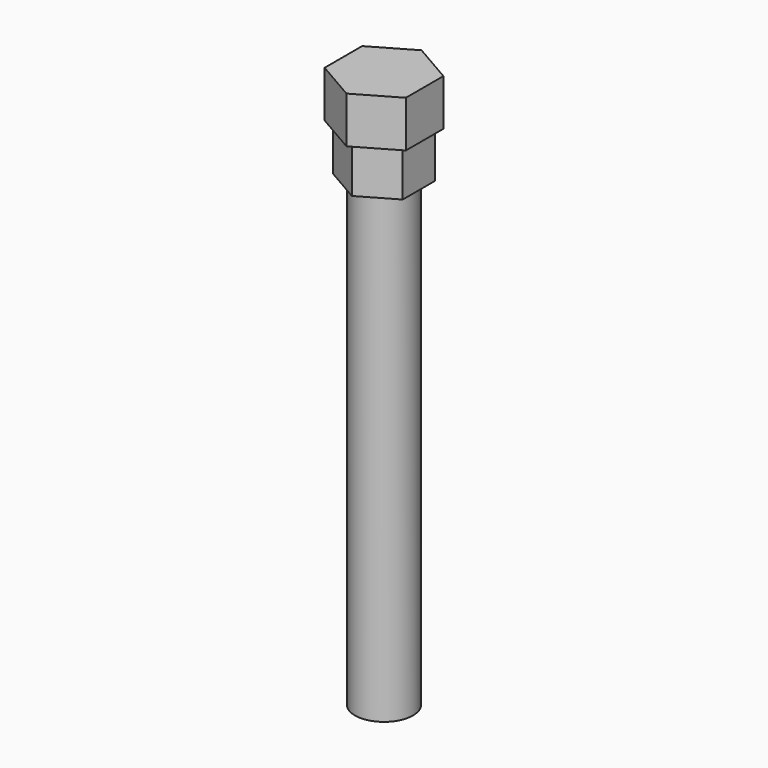
from build123d import *

# Parameters (mm, degrees)
F0_R     = 2.5
F1_DEPTH = 40
F3_DEPTH = 4
F5_DEPTH = 4


with BuildPart() as f1:
    # F0 (on Top) → F1 (new body)
    with BuildSketch(Plane.XY):
        Circle(F0_R)
    extrude(amount=F1_DEPTH)

    # F2 (on face) → F3 (join)
    with BuildSketch(Plane.XY.offset(40)):
        Polygon((3, -1.732051), (3, 1.732051), (0, 3.464102), (-3, 1.732051), (-3, -1.732051), (0, -3.464102), align=None)
    extrude(amount=F3_DEPTH)

    # F4 (on face) → F5 (join)
    with BuildSketch(Plane.XY.offset(44)):
        Polygon((3.5, -2.020726), (3.5, 2.020726), (0, 4.041452), (-3.5, 2.020726), (-3.5, -2.020726), (0, -4.041452), align=None)
    extrude(amount=F5_DEPTH)


solid = f1.part
